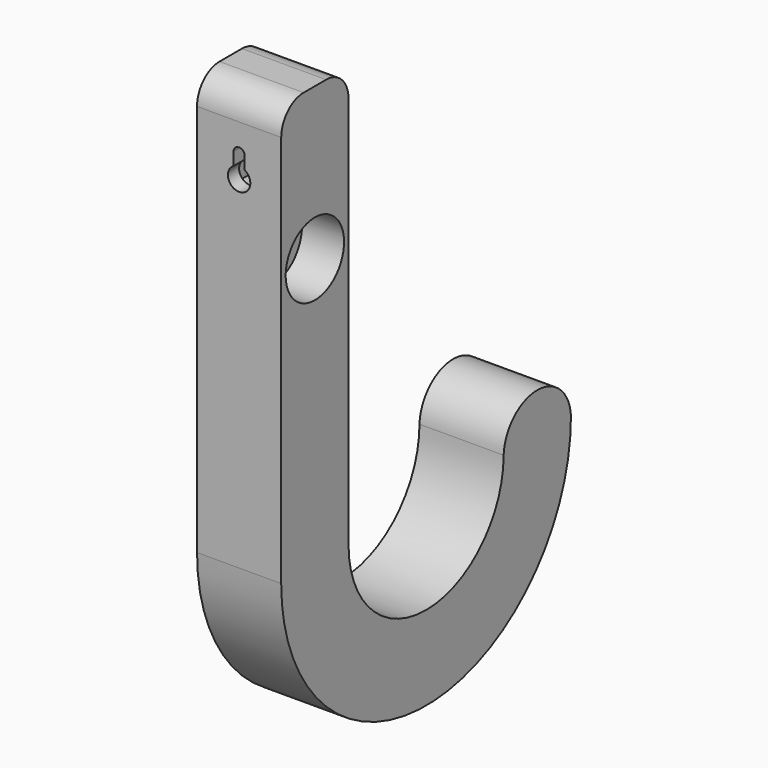
from build123d import *

# Parameters (mm, degrees)
F1_DEPTH = 30
F2_R     = 13
F3_DEPTH = 15
F5_DEPTH = 15
F6_W     = 16.029888
F6_H     = 19.464858
F7_DEPTH = 10
F8_R     = 10


with BuildPart() as f1:
    # F0 (on Right) → F1 (new body)
    with BuildSketch(Plane.YZ):
        with BuildLine():
            ThreePointArc((69.107138, 0), (34.553569, -34.553569), (0, 0))
            Line((0, 0), (0, 150))
            Line((0, 150), (-30, 150))
            Line((-30, 150), (-30, 0))
            ThreePointArc((-30, 0), (34.553569, -64.553569), (99.107138, 0))
            ThreePointArc((99.107138, 0), (84.107138, 14.337759), (69.107138, 0))
        make_face()
    extrude(amount=F1_DEPTH)

    # F2 (on face) → F3 (cut)
    with BuildSketch(Plane.YZ.offset(30)):
        with Locations((-15, 95.836063)):
            Circle(F2_R)
    extrude(amount=-F3_DEPTH, mode=Mode.SUBTRACT)

    # F4 (on face) → F5 (cut)
    with BuildSketch(Plane.XZ.offset(30)):
        with BuildLine():
            Line((13, 130.011459), (13, 125.511459))
            ThreePointArc((13, 125.511459), (15, 118.047357), (17, 125.511459))
            Line((17, 125.511459), (17, 130.011459))
            ThreePointArc((17, 130.011459), (15, 132.011459), (13, 130.011459))
        make_face()
    extrude(amount=-F5_DEPTH, mode=Mode.SUBTRACT)

    # F6 (on face) → F7 (cut)
    with BuildSketch(Plane.XZ.offset(15)):
        with Locations((15.266558, 124.901053)):
            Rectangle(F6_W, F6_H)
    extrude(amount=F7_DEPTH, mode=Mode.SUBTRACT)

    # F8
    f8_edges = [f1.edges().sort_by_distance(p)[0] for p in [
        (15, 0, 150),
        (15, -30, 150),
    ]]
    fillet(f8_edges, radius=F8_R)


solid = f1.part
